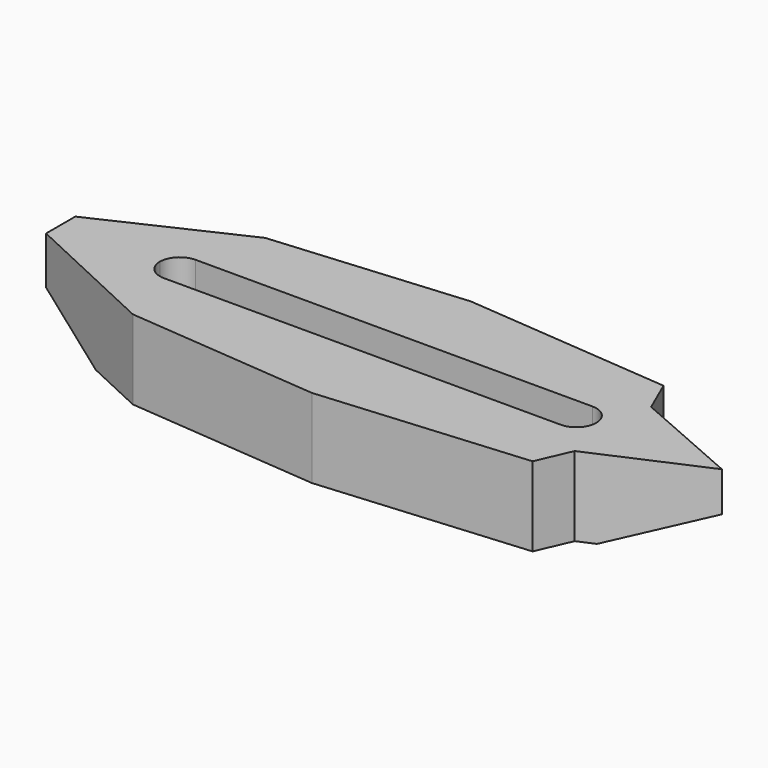
from build123d import *

# Parameters (mm, degrees)
F1_DEPTH = 762
F3_DEPTH = 952.501


with BuildPart() as f1:
    # F0 (on Top) → F1 (new body)
    with BuildSketch(Plane.XY):
        with BuildLine():
            Line((1968.5, 0), (3175, 0))
            Line((3175, 0), (2128.052532, 458.63929))
            Line((2128.052532, 458.63929), (1985.123992, 786.185801))
            Line((1985.123992, 786.185801), (0, 952.5))
            Line((0, 952.5), (-1846.342444, 794.690728))
            Line((-1846.342444, 794.690728), (-3175, 175.199179))
            Line((-3175, 175.199179), (-3175, 0))
            Line((-3175, 0), (-2222.5, 0))
            ThreePointArc((-2222.5, 0), (-2166.703842, 134.703842), (-2032, 190.5))
            Line((-2032, 190.5), (1778, 190.5))
            ThreePointArc((1778, 190.5), (1912.703842, 134.703842), (1968.5, 0))
        make_face()
    extrude(amount=-F1_DEPTH)

    # F2 (on face) → F3 (intersect, through all)
    with BuildSketch(Plane.XZ):
        Polygon((2286, -762), (3175, -381), (3175, 0), (-3175, 0), (-3175, -457.2), (-2413, -762), align=None)
    extrude(amount=-F3_DEPTH, mode=Mode.INTERSECT)

    # F4: F1 across face


with BuildPart() as f1_1:
    add(f1.part)
    add(f1.part.mirror(Plane(origin=(-2656.416667, 0, -327.780952), x_dir=(1, 0, 0), z_dir=(0, -1, 0))))


solid = f1_1.part
